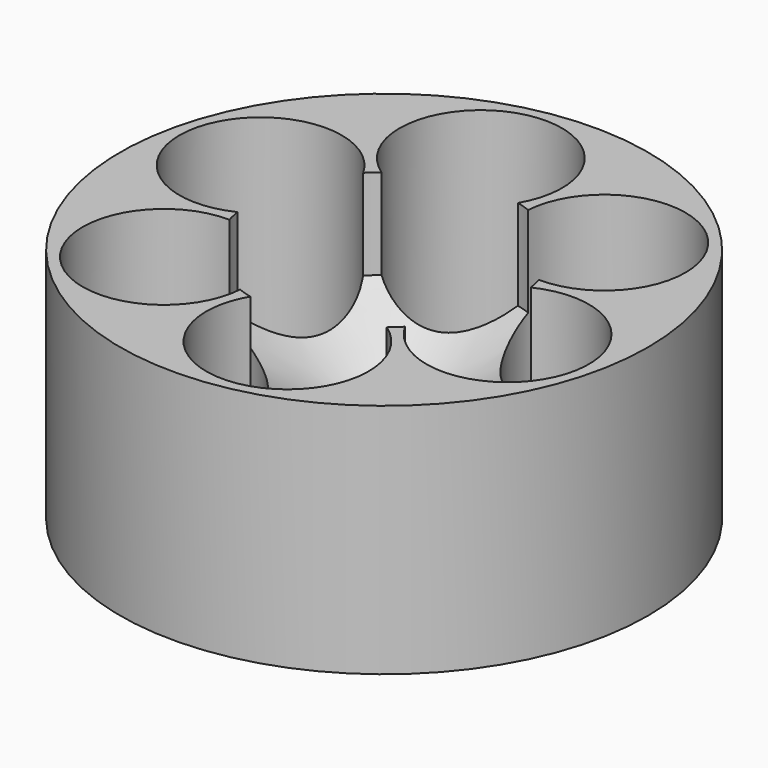
from build123d import *

# Parameters (mm, degrees)
F0_R     = 18.375
F1_DEPTH = 16.45
F3_D     = 11.3
F5_D     = 18.25
F5_DEPTH = 6.3
F5_TIP   = 5.4828531486
F7_D     = 6.35


with BuildPart() as f1:
    # F0 (on Top) → F1 (new body)
    with BuildSketch(Plane.XY):
        Circle(F0_R)
    extrude(amount=F1_DEPTH)

    # F3 (through all)
    with Locations(Plane.XY.offset(16.45)):
        with Locations((-8.8218893741, -8.1347567801), (-2.6339613381, 11.7073586974), (-11.4558507122, 3.5726019173), (2.6339613381, -11.7073586974), (11.4558507122, -3.5726019173), (8.8218893741, 8.1347567801)):
            Hole(F3_D / 2)

    # F5
    with Locations(Plane.XY.offset(16.45)):
        with Locations((0, 0)):
            Hole(F5_D / 2, depth=F5_DEPTH)
            with Locations((0, 0, -(F5_DEPTH + F5_TIP / 2))):  # 118° drill point
                Cone(0, F5_D / 2, F5_TIP, mode=Mode.SUBTRACT)

    # F7 (through all)
    with Locations(Plane(origin=(0, 0, 0), x_dir=(1, 0, 0), z_dir=(0, 0, -1))):
        with Locations((0, 0)):
            Hole(F7_D / 2)


solid = f1.part
